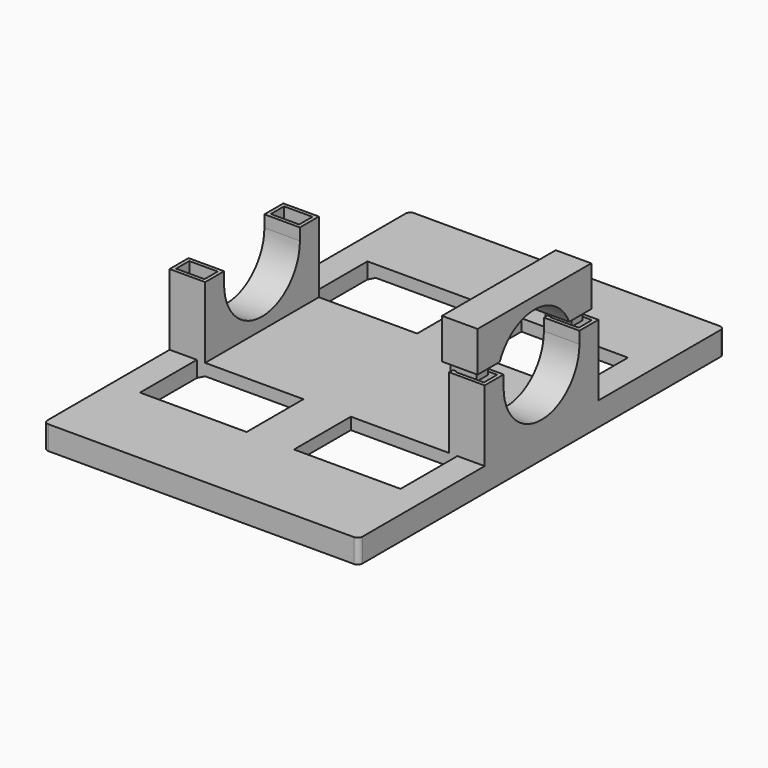
from build123d import *

# Parameters (mm, degrees)
SKETCH_W             = 133
SKETCH_H             = 193
PAD_DEPTH            = 10
SKETCH001_W          = 15
SKETCH001_H          = 60
PAD001_DEPTH         = 60
POCKET_DEPTH         = 91.5
SKETCH003_W          = 45
SKETCH003_H          = 30
POCKET001_DEPTH      = 60.001
SKETCH004_R          = 20
POCKET002_DEPTH      = 66.501
POCKET002_DEPTH_BACK = -66.501
SKETCH005_W          = 60
SKETCH005_H          = 60
POCKET003_DEPTH      = 66.501
POCKET003_DEPTH_BACK = -66.501
SKETCH006_R          = 2.25
POCKET004_DEPTH      = 0.001
POCKET004_DEPTH_BACK = -35.001
SKETCH007_R          = 4
POCKET005_DEPTH      = 32
SKETCH008_W          = 15
SKETCH008_H          = 10
SKETCH008_W_2        = 12
SKETCH008_H_2        = 7
PAD002_DEPTH         = 5
FILLET_R             = 2
SKETCH009_W          = 15
SKETCH009_H          = 60
PAD003_DEPTH         = 60
SKETCH010_R          = 20
POCKET006_DEPTH      = 7.501
POCKET006_DEPTH_BACK = -7.501
SKETCH011_W          = 60
SKETCH011_H          = 40
POCKET007_DEPTH      = 7.501
POCKET007_DEPTH_BACK = -7.501
SKETCH012_R          = 2.25
POCKET008_DEPTH      = 55
SKETCH013_W          = 15
SKETCH013_H          = 12
SKETCH013_W_2        = 11
SKETCH013_H_2        = 6
POCKET009_DEPTH      = 43
SKETCH014_W          = 80
SKETCH014_H          = 39
POCKET010_DEPTH      = 7.501
POCKET010_DEPTH_BACK = -7.501


with BuildPart() as body:
    # Sketch → Pad (new body)
    with BuildSketch(Plane.XY):
        Rectangle(SKETCH_W, SKETCH_H)
    extrude(amount=PAD_DEPTH)

    # Sketch001 → Pad001 (join)
    with BuildSketch(Plane.XY):
        with Locations((59, 0)):
            Rectangle(SKETCH001_W, SKETCH001_H)
        with Locations((-59, 0)):
            Rectangle(SKETCH001_W, SKETCH001_H)
    extrude(amount=PAD001_DEPTH)

    # Sketch002 → Pocket (cut, symmetric)
    with BuildSketch(Plane.XZ):
        Polygon((-51.5, 5), (51.5, 5), (61.5, 0), (0, 0), (-61.5, 0), align=None)
    extrude(amount=POCKET_DEPTH, both=True, mode=Mode.SUBTRACT)

    # Sketch003 → Pocket001 (cut, through all)
    with BuildSketch(Plane.XY):
        with Locations((-32.5, 45)):
            Rectangle(SKETCH003_W, SKETCH003_H)
        with Locations((32.5, 45)):
            Rectangle(SKETCH003_W, SKETCH003_H)
        with Locations((32.5, -45)):
            Rectangle(SKETCH003_W, SKETCH003_H)
        with Locations((-32.5, -45)):
            Rectangle(SKETCH003_W, SKETCH003_H)
    extrude(amount=POCKET001_DEPTH, mode=Mode.SUBTRACT)

    # Sketch004 → Pocket002 (cut, two sides)
    with BuildSketch(Plane.YZ) as pocket002_sk:
        with Locations((0, 35)):
            Circle(SKETCH004_R)
    extrude(amount=-POCKET002_DEPTH, mode=Mode.SUBTRACT)
    extrude(pocket002_sk.sketch, amount=-POCKET002_DEPTH_BACK, mode=Mode.SUBTRACT)

    # Sketch005 → Pocket003 (cut, two sides)
    with BuildSketch(Plane.YZ) as pocket003_sk:
        with Locations((0, 65)):
            Rectangle(SKETCH005_W, SKETCH005_H)
    extrude(amount=-POCKET003_DEPTH, mode=Mode.SUBTRACT)
    extrude(pocket003_sk.sketch, amount=-POCKET003_DEPTH_BACK, mode=Mode.SUBTRACT)

    # Sketch006 → Pocket004 (cut, two sides)
    with BuildSketch(Plane.XY) as pocket004_sk:
        with Locations((-59, 25)):
            Circle(SKETCH006_R)
        with Locations((59, 25)):
            Circle(SKETCH006_R)
        with Locations((59, -25)):
            Circle(SKETCH006_R)
        with Locations((-59, -25)):
            Circle(SKETCH006_R)
    extrude(amount=-POCKET004_DEPTH, mode=Mode.SUBTRACT)
    extrude(pocket004_sk.sketch, amount=-POCKET004_DEPTH_BACK, mode=Mode.SUBTRACT)

    # Sketch007 → Pocket005 (cut)
    with BuildSketch(Plane.XY):
        with Locations((-59, 25)):
            Circle(SKETCH007_R)
        with Locations((59, 25)):
            Circle(SKETCH007_R)
        with Locations((59, -25)):
            Circle(SKETCH007_R)
        with Locations((-59, -25)):
            Circle(SKETCH007_R)
    extrude(amount=POCKET005_DEPTH, mode=Mode.SUBTRACT)

    # Sketch008 (on Face50 of Pocket005) → Pad002 (join)
    with BuildSketch(Plane.XY.offset(35)):
        with Locations((-59, 25)):
            Rectangle(SKETCH008_W, SKETCH008_H)
        with Locations((-59, 25)):
            Rectangle(SKETCH008_W_2, SKETCH008_H_2, mode=Mode.SUBTRACT)
        with Locations((-59, -25)):
            Rectangle(SKETCH008_W, SKETCH008_H)
        with Locations((-59, -25)):
            Rectangle(SKETCH008_W_2, SKETCH008_H_2, mode=Mode.SUBTRACT)
        with Locations((59, -25)):
            Rectangle(SKETCH008_W, SKETCH008_H)
        with Locations((59, -25)):
            Rectangle(SKETCH008_W_2, SKETCH008_H_2, mode=Mode.SUBTRACT)
        with Locations((59, 25)):
            Rectangle(SKETCH008_W, SKETCH008_H)
        with Locations((59, 25)):
            Rectangle(SKETCH008_W_2, SKETCH008_H_2, mode=Mode.SUBTRACT)
    extrude(amount=PAD002_DEPTH)

    # Fillet
    fillet_edges = [body.edges().sort_by_distance(p)[0] for p in [
        (-66.5, 96.5, 5),
        (66.5, 96.5, 5),
        (-66.5, -96.5, 5),
        (66.5, -96.5, 5),
    ]]
    fillet(fillet_edges, radius=FILLET_R)


with BuildPart() as hole_fixer:
    # Sketch009 → Pad003 (new body)
    with BuildSketch(Plane.XY):
        Rectangle(SKETCH009_W, SKETCH009_H)
    extrude(amount=PAD003_DEPTH)

    # Sketch010 → Pocket006 (cut, two sides)
    with BuildSketch(Plane.YZ) as pocket006_sk:
        with Locations((0, 35)):
            Circle(SKETCH010_R)
    extrude(amount=-POCKET006_DEPTH, mode=Mode.SUBTRACT)
    extrude(pocket006_sk.sketch, amount=-POCKET006_DEPTH_BACK, mode=Mode.SUBTRACT)

    # Sketch011 → Pocket007 (cut, two sides)
    with BuildSketch(Plane.YZ) as pocket007_sk:
        with Locations((0, 15)):
            Rectangle(SKETCH011_W, SKETCH011_H)
    extrude(amount=-POCKET007_DEPTH, mode=Mode.SUBTRACT)
    extrude(pocket007_sk.sketch, amount=-POCKET007_DEPTH_BACK, mode=Mode.SUBTRACT)

    # Sketch012 → Pocket008 (cut)
    with BuildSketch(Plane.XY):
        with Locations((0, 25)):
            Circle(SKETCH012_R)
        with Locations((0, -25)):
            Circle(SKETCH012_R)
    extrude(amount=POCKET008_DEPTH, mode=Mode.SUBTRACT)

    # Sketch013 → Pocket009 (cut)
    with BuildSketch(Plane.XY):
        with Locations((0, 24)):
            Rectangle(SKETCH013_W, SKETCH013_H)
        with Locations((0, 25)):
            Rectangle(SKETCH013_W_2, SKETCH013_H_2, mode=Mode.SUBTRACT)
        with Locations((0, -24)):
            Rectangle(SKETCH013_W, SKETCH013_H)
        with Locations((0, -25)):
            Rectangle(SKETCH013_W_2, SKETCH013_H_2, mode=Mode.SUBTRACT)
    extrude(amount=POCKET009_DEPTH, mode=Mode.SUBTRACT)

    # Sketch014 → Pocket010 (cut, two sides)
    with BuildSketch(Plane.YZ) as pocket010_sk:
        with Locations((0, 19.5)):
            Rectangle(SKETCH014_W, SKETCH014_H)
    extrude(amount=-POCKET010_DEPTH, mode=Mode.SUBTRACT)
    extrude(pocket010_sk.sketch, amount=-POCKET010_DEPTH_BACK, mode=Mode.SUBTRACT)


with BuildPart() as hole_fixer_1:
    # Body001 placement: moved
    add(hole_fixer.part.moved(Location((56, 0, 0))))


solid = Compound([body.part, hole_fixer_1.part])
